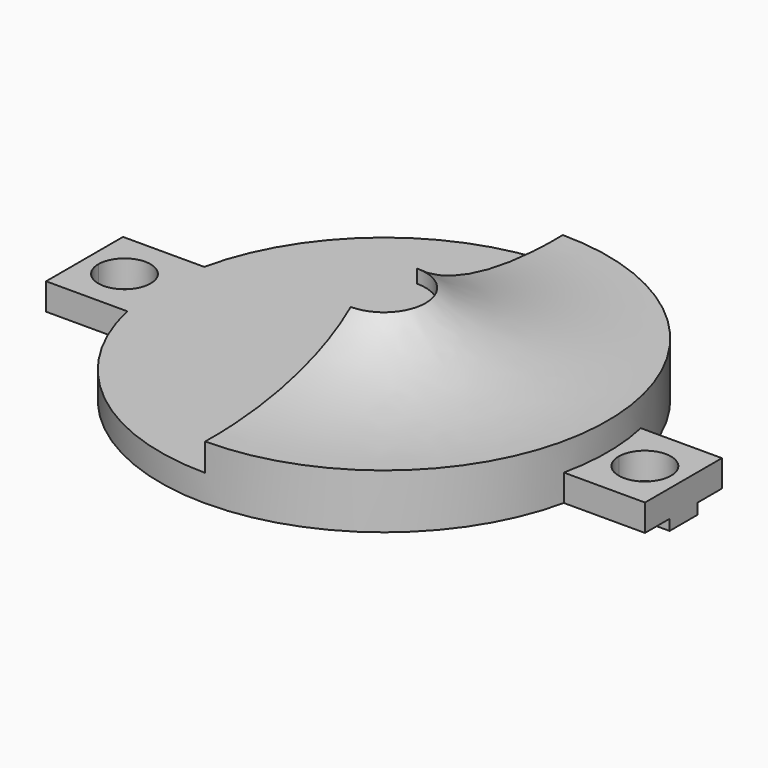
from build123d import *

# Parameters (mm, degrees)
F3_DEPTH  = 50.8
F5_DEPTH  = 25.4
F7_DEPTH  = 5
F8_W      = 15.135864
F8_H      = 17.9375
F9_DEPTH  = 5
F10_W     = 12.7
F10_H     = 3.2385
F11_DEPTH = 2
F13_DEPTH = 25.4


with BuildPart() as f1:
    # F0 (on Front) → F1 (revolve)
    with BuildSketch(Plane.XZ):
        with BuildLine():
            Line((0, 5), (0, 0))
            Line((0, 0), (41.7, 0))
            Line((41.7, 0), (41.7, 10.163587))
            add(Edge.make_bspline(
                [(7.75, 18.455775), (15.354575, 12.432687), (28.510841, 9.94407), (41.7, 10.163587)],
                knots=[0, 0, 0, 0, 34.948003, 34.948003, 34.948003, 34.948003], degree=3))
            Line((7.75, 18.455775), (7.75, 15.955775))
            add(Edge.make_bspline(
                [(7.75, 15.955775), (8.670718, 15.370223), (9.53974, 14.818877), (10.4, 14.3)],
                knots=[0, 0, 0, 0, 4.090011, 4.090011, 4.090011, 4.090011], degree=3))
            add(Edge.make_bspline(
                [(10.4, 14.3), (13.56972, 12.388142), (16.620486, 10.917097), (21.7, 9.8)],
                knots=[4.090011, 4.090011, 4.090011, 4.090011, 19.160091, 19.160091, 19.160091, 19.160091], degree=3))
            add(Edge.make_bspline(
                [(21.7, 9.8), (25.370522, 8.992771), (30.100394, 8.370363), (36.7, 7.9)],
                knots=[19.160091, 19.160091, 19.160091, 19.160091, 30.049925, 30.049925, 30.049925, 30.049925], degree=3))
            Line((36.7, 7.9), (36.7, 5))
            Line((36.7, 5), (21.7, 5))
            Line((21.7, 5), (10.4, 5))
            Line((10.4, 5), (0, 5))
        make_face()
    revolve(axis=Axis((0, 0, 2.5), (0, 0, -1)))

    # F2 (on Front) → F3 (cut, symmetric)
    with BuildSketch(Plane.XZ):
        Polygon((0, 5), (0, 50.867478), (-90.82243, 44.18689), (-90.82243, 5), align=None)
    extrude(amount=F3_DEPTH, both=True, mode=Mode.SUBTRACT)

    # F4 (on Top) → F5 (cut)
    with BuildSketch(Plane.XY):
        Polygon((0, -4.69055), (0, 4.69055), (-12.84133, 12.104495), (-12.84133, -12.104495), align=None)
    extrude(amount=F5_DEPTH, mode=Mode.SUBTRACT)

    # F6 (on face) → F7 (join)
    with BuildSketch(Plane(origin=(0, 0, 0), x_dir=(1, 0, 0), z_dir=(0, 0, -1))):
        Polygon((0, -4.69055), (0, 4.69055), (-12.84133, 12.104495), (-12.84133, -12.104495), align=None)
    extrude(amount=-F7_DEPTH)

    # F8 (on face) → F9 (join)
    with BuildSketch(Plane(origin=(0, 0, 0), x_dir=(1, 0, 0), z_dir=(0, 0, -1))):
        with Locations((-48.292022, 0)):
            Rectangle(F8_W, F8_H)
        with Locations((48.292022, 0)):
            Rectangle(F8_W, F8_H)
    extrude(amount=-F9_DEPTH)

    # F10 (on face) → F11 (join)
    with BuildSketch(Plane(origin=(0, 0, 0), x_dir=(1, 0, 0), z_dir=(0, 0, -1))):
        with Locations((49.509954, 1.61925)):
            Rectangle(F10_W, F10_H)
        with Locations((49.509954, -1.61925)):
            Rectangle(F10_W, F10_H)
        with Locations((-49.509954, -1.61925)):
            Rectangle(F10_W, F10_H)
        with Locations((-49.509954, 1.61925)):
            Rectangle(F10_W, F10_H)
    extrude(amount=F11_DEPTH)

    # F12 (on face) → F13 (cut)
    with BuildSketch(Plane.XY.offset(5)):
        with BuildLine():
            Line((-53.282022, 0), (-43.535147, 0))
            ThreePointArc((-43.535147, 0), (-48.408585, 4.873438), (-53.282022, 0))
        make_face()
        with BuildLine():
            ThreePointArc((-53.282022, 0), (-48.408585, -4.873438), (-43.535147, 0))
            Line((-43.535147, 0), (-53.282022, 0))
        make_face()
        with BuildLine():
            Line((43.790486, 0), (53.537361, 0))
            ThreePointArc((53.537361, 0), (48.663924, 4.873438), (43.790486, 0))
        make_face()
        with BuildLine():
            ThreePointArc((43.790486, 0), (48.663924, -4.873438), (53.537361, 0))
            Line((53.537361, 0), (43.790486, 0))
        make_face()
    extrude(amount=-F13_DEPTH, mode=Mode.SUBTRACT)


solid = f1.part
